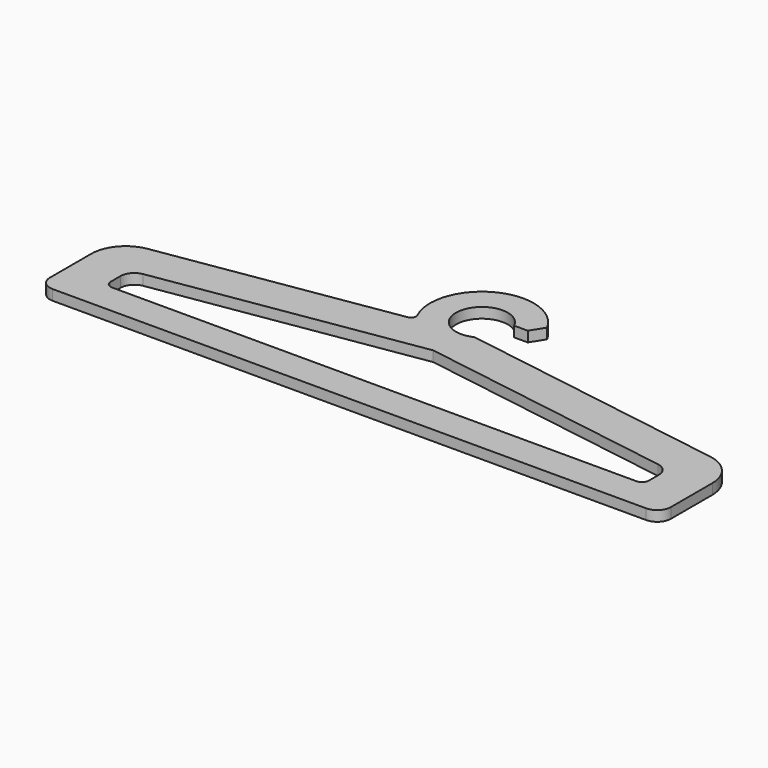
from build123d import *

# Parameters (mm, degrees)
F1_DEPTH = 6


with BuildPart() as f1:
    # F0 (on Top) → F1 (new body)
    with BuildSketch(Plane.XY):
        with BuildLine():
            ThreePointArc((26.343276, 118.414499), (15.319689, 129.854238), (0, 134.06069))
            ThreePointArc((0, 134.06069), (-25.362855, 120.083349), (-27.092025, 91.17573))
            ThreePointArc((-27.092025, 91.17573), (-27.147048, 88.488902), (-29.331924, 86.924169))
            Line((-29.331924, 86.924169), (-163.128689, 65.732843))
            ThreePointArc((-163.128689, 65.732843), (-175.208119, 58.968037), (-180, 45.979076))
            Line((-180, 45.979076), (-180, 16.06069))
            ThreePointArc((-180, 16.06069), (-177.656854, 10.403836), (-172, 8.06069))
            Line((-172, 8.06069), (0, 8.06069))
            Line((0, 8.06069), (172, 8.06069))
            ThreePointArc((172, 8.06069), (177.656854, 10.403836), (180, 16.06069))
            Line((180, 16.06069), (180, 45.979076))
            ThreePointArc((180, 45.979076), (175.208119, 58.968037), (163.128689, 65.732843))
            Line((163.128689, 65.732843), (25.079287, 87.59772))
            Line((25.079287, 87.59772), (6.497193, 90.540835))
            ThreePointArc((6.497193, 90.540835), (-14.151058, 109.035382), (13.528035, 110.540835))
            Line((13.528035, 110.540835), (21.409902, 110.540835))
            Line((21.409902, 110.540835), (26.343276, 118.414499))
        make_face()
        with BuildLine():
            Line((-149.251476, 45.129551), (0, 68.768663))
            Line((0, 68.768663), (149.251476, 45.129551))
            ThreePointArc((149.251476, 45.129551), (154.083248, 42.423629), (156, 37.228045))
            Line((156, 37.228045), (156, 30.06069))
            ThreePointArc((156, 30.06069), (154.828427, 27.232263), (152, 26.06069))
            Line((152, 26.06069), (0, 26.06069))
            Line((0, 26.06069), (-152, 26.06069))
            ThreePointArc((-152, 26.06069), (-154.828427, 27.232263), (-156, 30.06069))
            Line((-156, 30.06069), (-156, 37.228045))
            ThreePointArc((-156, 37.228045), (-154.083248, 42.423629), (-149.251476, 45.129551))
        make_face(mode=Mode.SUBTRACT)
    extrude(amount=F1_DEPTH)


solid = f1.part
